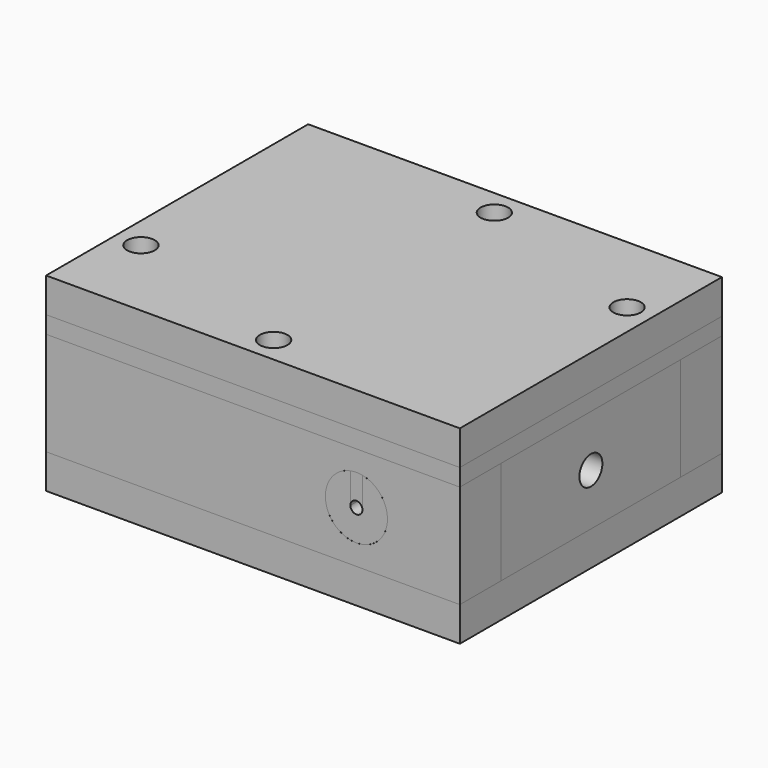
from build123d import *

# Parameters (mm, degrees)
F9_W      = 120
F9_H      = 95
F10_DEPTH = 10
F11_W     = 65
F11_H     = 30
F11_R     = 4.165
F12_DEPTH = 15
F6_W      = 120
F6_H      = 30
F6_R      = 9
F14_DEPTH = 15
F16_R     = 3.4
F17_DEPTH = 20
F18_R     = 3.4
F19_DEPTH = 20
F20_R     = 3.4
F21_DEPTH = 20
F22_R     = 3.4
F23_DEPTH = 20
F24_R     = 9
F25_DEPTH = 15
F26_W     = 120
F26_H     = 95
F27_DEPTH = 5
F29_DEPTH = 1.5
F30_R     = 4
F31_DEPTH = 5
F32_W     = 120
F32_H     = 95
F32_R     = 4
F33_DEPTH = 10
F36_DEPTH = 15
F38_DEPTH = 15
F40_R     = 1.5


with BuildPart() as f10:
    # F9 (on offset) → F10 (new body)
    with BuildSketch(Plane.XY.offset(-15)):
        Rectangle(F9_W, F9_H)
    extrude(amount=-F10_DEPTH)


with BuildPart() as f12:
    # F11 (on line) → F12 (new body)
    with BuildSketch(Plane(origin=(-45, 0, 0), x_dir=(0, -1, 0), z_dir=(-1, 0, 0))):
        Rectangle(F11_W, F11_H)
        Circle(F11_R, mode=Mode.SUBTRACT)
    extrude(amount=F12_DEPTH)


with BuildPart() as f13_1:
    # F13: instance of F12
    add(f12.part.mirror(Plane.YZ))

    # F20 (on offset) → F21 (cut)
    with BuildSketch(Plane.XY.offset(15)):
        with Locations((52.5, 22.5)):
            Circle(F20_R)
    extrude(amount=-F21_DEPTH, mode=Mode.SUBTRACT)


with BuildPart() as f14:
    # F6 (on offset) → F14 (new body)
    with BuildSketch(Plane.XZ.offset(32.5)):
        Rectangle(F6_W, F6_H)
        with Locations((30, 0)):
            Circle(F6_R, mode=Mode.SUBTRACT)
        with Locations((30, 0)):
            Circle(F6_R)
    extrude(amount=F14_DEPTH)


with BuildPart() as f15_1:
    # F15: instance of F14
    add(f14.part.mirror(Plane.XZ))

    # F22 (on offset) → F23 (cut)
    with BuildSketch(Plane.XY.offset(15)):
        with Locations((0, 40)):
            Circle(F22_R)
    extrude(amount=-F23_DEPTH, mode=Mode.SUBTRACT)


with BuildPart() as f12_1:
    add(f12.part)

    # F16 (on offset) → F17 (cut)
    with BuildSketch(Plane.XY.offset(15)):
        with Locations((-52.5, -22.5)):
            Circle(F16_R)
    extrude(amount=-F17_DEPTH, mode=Mode.SUBTRACT)


with BuildPart() as f14_1:
    add(f14.part)

    # F18 (on offset) → F19 (cut)
    with BuildSketch(Plane.XY.offset(15)):
        with Locations((0, -40)):
            Circle(F18_R)
    extrude(amount=-F19_DEPTH, mode=Mode.SUBTRACT)

    # F24 (on offset) → F25 (cut)
    with BuildSketch(Plane.XZ.offset(32.5)):
        with Locations((30, 0)):
            Circle(F24_R)
    extrude(amount=F25_DEPTH, mode=Mode.SUBTRACT)


with BuildPart() as f27:
    # F26 (on offset) → F27 (new body)
    with BuildSketch(Plane.XY.offset(20)):
        Rectangle(F26_W, F26_H)
        with BuildLine():
            ThreePointArc((-41, 20.5), (-38.6568542495, 26.1568542495), (-33, 28.5))
            Line((-33, 28.5), (33, 28.5))
            ThreePointArc((33, 28.5), (38.6568542495, 26.1568542495), (41, 20.5))
            Line((41, 20.5), (41, -20.5))
            ThreePointArc((41, -20.5), (38.6568542495, -26.1568542495), (33, -28.5))
            Line((33, -28.5), (-33, -28.5))
            ThreePointArc((-33, -28.5), (-38.6568542495, -26.1568542495), (-41, -20.5))
            Line((-41, -20.5), (-41, 20.5))
        make_face(mode=Mode.SUBTRACT)
    extrude(amount=-F27_DEPTH)

    # F28 (on offset) → F29 (cut)
    with BuildSketch(Plane.XY.offset(20)):
        with BuildLine():
            Line((33, 34.5), (-33, 34.5))
            ThreePointArc((-33, 34.5), (-42.8994949366, 30.3994949366), (-47, 20.5))
            Line((-47, 20.5), (-47, -20.5))
            ThreePointArc((-47, -20.5), (-42.8994949366, -30.3994949366), (-33, -34.5))
            Line((-33, -34.5), (33, -34.5))
            ThreePointArc((33, -34.5), (42.8994949366, -30.3994949366), (47, -20.5))
            Line((47, -20.5), (47, 20.5))
            ThreePointArc((47, 20.5), (42.8994949366, 30.3994949366), (33, 34.5))
        make_face()
        with BuildLine():
            ThreePointArc((-44, 20.5), (-40.7781745931, 28.2781745931), (-33, 31.5))
            Line((-33, 31.5), (33, 31.5))
            ThreePointArc((33, 31.5), (40.7781745931, 28.2781745931), (44, 20.5))
            Line((44, 20.5), (44, -20.5))
            ThreePointArc((44, -20.5), (40.7781745931, -28.2781745931), (33, -31.5))
            Line((33, -31.5), (-33, -31.5))
            ThreePointArc((-33, -31.5), (-40.7781745931, -28.2781745931), (-44, -20.5))
            Line((-44, -20.5), (-44, 20.5))
        make_face(mode=Mode.SUBTRACT)
    extrude(amount=-F29_DEPTH, mode=Mode.SUBTRACT)

    # F30 (on offset) → F31 (cut)
    with BuildSketch(Plane.XY.offset(20)):
        with Locations((-52.5, -22.5)):
            Circle(F30_R)
        with Locations((0, -40)):
            Circle(F30_R)
        with Locations((52.5, 22.5)):
            Circle(F30_R)
        with Locations((0, 40)):
            Circle(F30_R)
    extrude(amount=-F31_DEPTH, mode=Mode.SUBTRACT)


with BuildPart() as f33:
    # F32 (on offset) → F33 (new body)
    with BuildSketch(Plane.XY.offset(20)):
        Rectangle(F32_W, F32_H)
        with Locations((-52.5, -22.5)):
            Circle(F32_R, mode=Mode.SUBTRACT)
        with Locations((0, -40)):
            Circle(F32_R, mode=Mode.SUBTRACT)
        with Locations((52.5, 22.5)):
            Circle(F32_R, mode=Mode.SUBTRACT)
        with Locations((0, 40)):
            Circle(F32_R, mode=Mode.SUBTRACT)
    extrude(amount=F33_DEPTH)


with BuildPart() as f36:
    # F35 (on offset) → F36 (new body)
    with BuildSketch(Plane.XZ.offset(32.5)):
        with BuildLine():
            Line((28.25, 0), (28.25, 8.8282217915))
            ThreePointArc((28.25, 8.8282217915), (30, -9), (31.75, 8.8282217915))
            Line((31.75, 8.8282217915), (31.75, 0))
            ThreePointArc((31.75, 0), (30, -1.75), (28.25, 0))
        make_face()
    extrude(amount=F36_DEPTH)


with BuildPart() as f38:
    # F37 (on offset) → F38 (new body)
    with BuildSketch(Plane.XZ.offset(32.5)):
        with BuildLine():
            Line((31.75, 0), (31.75, 8.8282217915))
            ThreePointArc((31.75, 8.8282217915), (30, 9), (28.25, 8.8282217915))
            Line((28.25, 8.8282217915), (28.25, 0))
            ThreePointArc((28.25, 0), (30, 1.75), (31.75, 0))
        make_face()
    extrude(amount=F38_DEPTH)


with BuildPart() as f41:
    # F41: sweep along a path in F39
    with BuildLine(Plane.XY.offset(20)) as f41_path:
        ThreePointArc((-33, 33), (-41.8388347648, 29.3388347648), (-45.5, 20.5))
        Line((-45.5, 20.5), (-45.5, 0))
        Line((-45.5, 0), (-45.5, -20.5))
        ThreePointArc((-45.5, -20.5), (-41.8388347648, -29.3388347648), (-33, -33))
        Line((-33, -33), (33, -33))
        ThreePointArc((33, -33), (41.8388347648, -29.3388347648), (45.5, -20.5))
        Line((45.5, -20.5), (45.5, 20.5))
        ThreePointArc((45.5, 20.5), (41.8388347648, 29.3388347648), (33, 33))
        Line((33, 33), (-33, 33))
    # F40 (on Front) → F41 (sweep)
    with BuildSketch(Plane.XZ):
        with Locations((-45.5, 20)):
            Circle(F40_R)
    sweep(path=f41_path.line)


solid = Compound([f10.part, f13_1.part, f15_1.part, f12_1.part, f14_1.part, f27.part, f33.part, f36.part, f38.part, f41.part])
